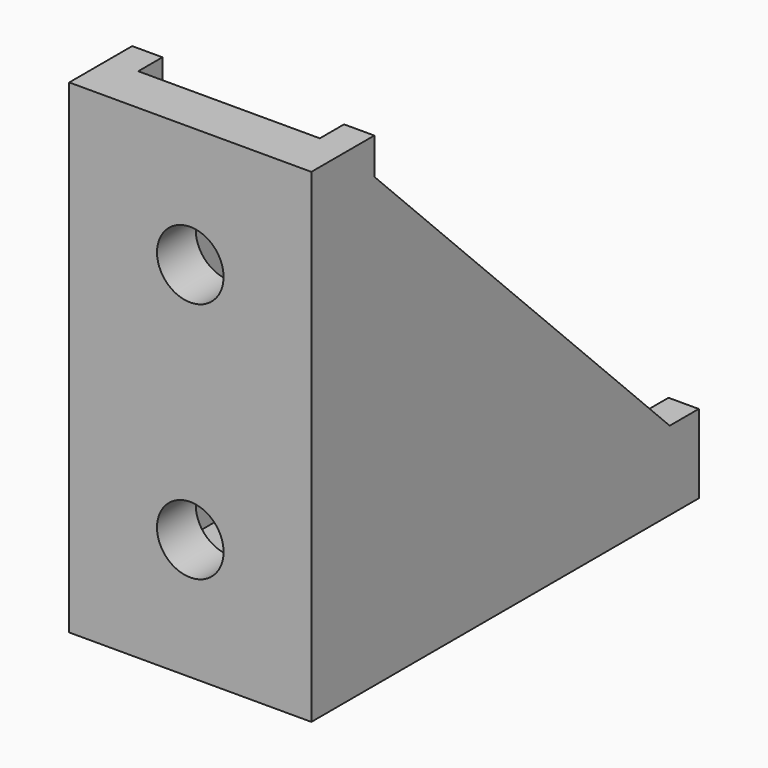
from build123d import *

# Parameters (mm, degrees)
F0_W     = 20
F0_H     = 40
F1_DEPTH = 4
F2_W     = 20
F2_H     = 40
F3_DEPTH = 4
F7_DEPTH = 2.5
F8_DEPTH = 2.5
F9_D     = 5.5
F11_D    = 5.5


with BuildPart() as f1:
    # F0 (on Top) → F1 (new body)
    with BuildSketch(Plane.XY):
        with Locations((-10, 20)):
            Rectangle(F0_W, F0_H)
    extrude(amount=F1_DEPTH)

    # F2 (on Front) → F3 (join)
    with BuildSketch(Plane.XZ):
        with Locations((-10, 20)):
            Rectangle(F2_W, F2_H)
    extrude(amount=-F3_DEPTH)

    # F6 (on face) → F7 (join)
    with BuildSketch(Plane(origin=(-20, 0, 0), x_dir=(0, -1, 0), z_dir=(-1, 0, 0))):
        Polygon((-4, 4), (-4, 40), (-6.5, 40), (-6.5, 37), (-37, 6.5), (-40, 6.5), (-40, 4), align=None)
    extrude(amount=-F7_DEPTH)

    # F5 (on face) → F8 (join)
    with BuildSketch(Plane.YZ):
        Polygon((4, 4), (40, 4), (40, 6.5), (37, 6.5), (6.5, 37), (6.5, 40), (4, 40), align=None)
    extrude(amount=-F8_DEPTH)

    # F9 (through all)
    with Locations(Plane.XZ):
        with Locations((-10, 30), (-10, 10)):
            Hole(F9_D / 2)

    # F11 (through all)
    with Locations(Plane(origin=(0, 0, 0), x_dir=(1, 0, 0), z_dir=(0, 0, -1))):
        with Locations((-10, -30), (-10, -10)):
            Hole(F11_D / 2)


solid = f1.part
